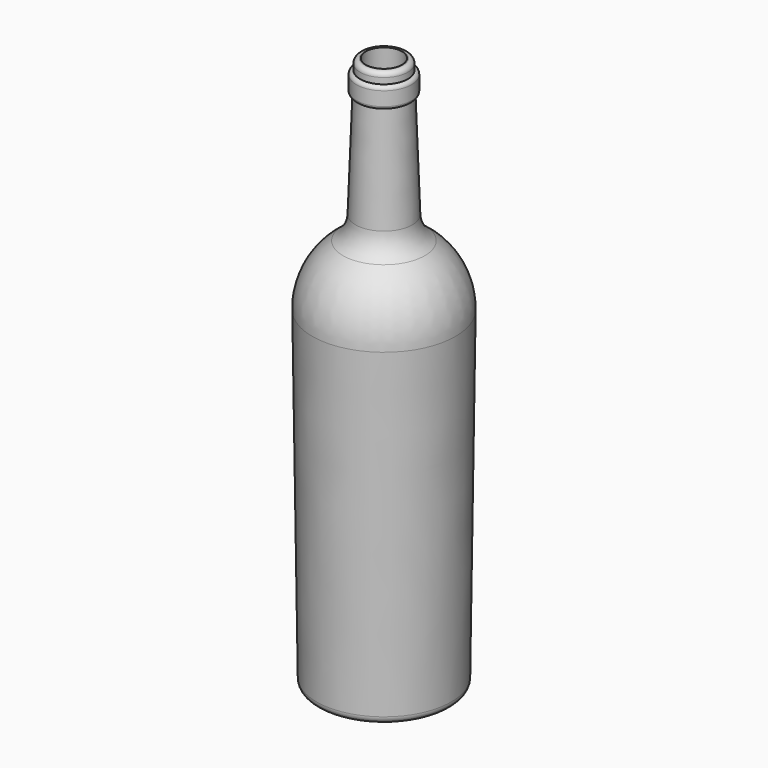
from build123d import *


with BuildPart() as part:
    # Sketch → Revolution (revolve)
    with BuildSketch(Plane.XZ):
        with BuildLine():
            Line((0, 121.755135), (-10.557865, 121.755135))
            ThreePointArc((-10.557865, 121.755135), (-12.372503, 121.003487), (-13.124151, 119.188849))
            Line((-13.124151, 119.188849), (-13.124151, 115.890269))
            ThreePointArc((-13.124151, 115.890269), (-14.575813, 115.288971), (-15.177111, 113.837308))
            Line((-15.177111, 113.837308), (-15.177111, 106.200218))
            ThreePointArc((-15.177111, 106.200218), (-14.704183, 105.029156), (-13.550658, 104.514929))
            Line((-13.550658, 104.514929), (-15.622993, 46.210348))
            ThreePointArc((-22.438492, 33.50216), (-17.553888, 39.064205), (-15.622993, 46.210348))
            ThreePointArc((-22.438492, 33.50216), (-35.012002, 18.827517), (-39.366642, 0))
            Line((-39.366642, 0), (-37.009769, -177.490365))
            ThreePointArc((-37.009769, -177.490365), (-35.780069, -180.377465), (-32.876896, -181.568723))
            Line((-32.876896, -181.568723), (-29.174831, -181.568723))
            ThreePointArc((-29.174831, -181.568723), (-24.147046, -179.986303), (-20.931878, -175.809539))
            Line((-20.931878, -175.809539), (-11.776556, -150.815181))
            ThreePointArc((0, -143.232245), (-7.160746, -145.047526), (-11.776556, -150.815181))
            Line((0, -143.232245), (0, 121.755135))
        make_face()
    revolve(axis=Axis((0, 0, 0), (0, 0, 1)))

    # Sketch001 → Groove (revolve, cut)
    with BuildSketch(Plane.XZ):
        with BuildLine():
            Line((0, 123.123055), (-9.862212, 123.123055))
            Line((-9.862212, 123.123055), (-14.362487, 45.767228))
            ThreePointArc((-21.692941, 32.461768), (-16.520985, 38.284387), (-14.362487, 45.767228))
            ThreePointArc((-21.692941, 32.461768), (-33.873441, 18.242697), (-38.086579, 0))
            Line((-38.086579, 0), (-35.656205, -177.247945))
            ThreePointArc((-35.656205, -177.247945), (-34.71925, -179.445757), (-32.508799, -180.352491))
            Line((-32.508799, -180.352491), (-29.414993, -180.352491))
            ThreePointArc((-29.414993, -180.352491), (-25.277622, -179.05451), (-22.623122, -175.625773))
            Line((-22.623122, -175.625773), (-13.197996, -150.185913))
            ThreePointArc((0, -141.200333), (-8.033817, -143.585665), (-13.197996, -150.185913))
            Line((0, -141.200333), (0, 123.123055))
        make_face()
    revolve(axis=Axis((0, 0, 0), (0, 0, 1)), mode=Mode.SUBTRACT)


solid = part.part
